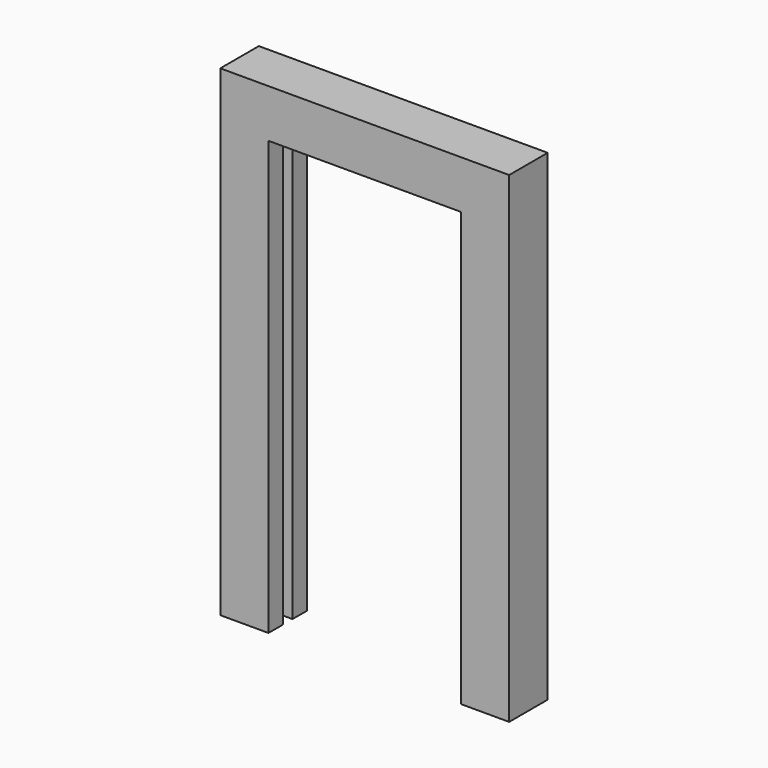
from build123d import *

# Parameters (mm, degrees)
F1_DEPTH  = 25.4
F3_W      = 6.35
F3_H      = 6.35
F4_W      = 6.35
F4_H      = 6.35
F5_DEPTH  = 228.6
F2_W      = 6.35
F2_H      = 6.35
F6_DEPTH  = 9.525
F8_START  = -9.525
F7_W      = 6.35
F7_H      = 6.35
F8_DEPTH  = 69.85
F9_W      = 6.35
F9_H      = 6.35
F10_DEPTH = 238.125


with BuildPart() as f1:
    # F0 (on Front) → F1 (new body)
    with BuildSketch(Plane.XZ):
        Polygon((76.2, -127), (76.2, 127), (-76.2, 127), (-76.2, -127), (-50.8, -127), (-50.8, -101.6), (-50.8, 101.6), (50.8, 101.6), (50.8, -101.6), (50.8, -127), align=None)
    extrude(amount=F1_DEPTH)

    # F3 (on face) + F4 (on face) → F5 (cut)
    with BuildSketch(Plane(origin=(0, 0, -127), x_dir=(1, 0, 0), z_dir=(0, 0, -1))):
        with Locations((-53.975, 12.7)):
            Rectangle(F3_W, F3_H)
    with BuildSketch(Plane(origin=(0, 0, -127), x_dir=(1, 0, 0), z_dir=(0, 0, -1))):
        with Locations((53.975, 12.7)):
            Rectangle(F4_W, F4_H)
    extrude(amount=-F5_DEPTH, mode=Mode.SUBTRACT)

    # F2 (on face) → F6 (cut)
    with BuildSketch(Plane(origin=(0, 0, 101.6), x_dir=(1, 0, 0), z_dir=(0, 0, -1))):
        with Locations((0, 12.7)):
            Rectangle(F2_W, F2_H)
    extrude(amount=-F6_DEPTH, mode=Mode.SUBTRACT)

    # F7 (on face) → F8 (cut)
    with BuildSketch(Plane.YZ.offset(76.2).offset(F8_START)):
        with Locations((-12.7, 114.3)):
            Rectangle(F7_W, F7_H)
    extrude(amount=-F8_DEPTH, mode=Mode.SUBTRACT)

    # F9 (on face) → F10 (cut)
    with BuildSketch(Plane(origin=(0, 0, -127), x_dir=(1, 0, 0), z_dir=(0, 0, -1))):
        with Locations((63.5, 12.7)):
            Rectangle(F9_W, F9_H)
    extrude(amount=-F10_DEPTH, mode=Mode.SUBTRACT)


solid = f1.part
